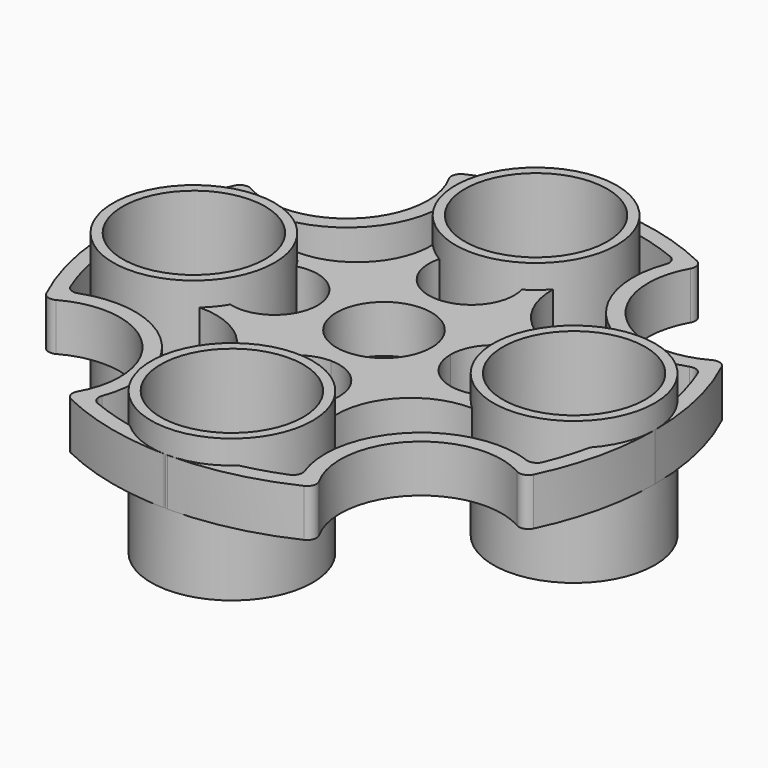
from build123d import *

# Parameters (mm, degrees)
F1_DEPTH = 6.35
F2_R     = 10.795
F2_R_2   = 9.525
F3_DEPTH = 9.525


with BuildPart() as f1:
    # F0 (on Top) → F1 (new body)
    with BuildSketch(Plane.XY):
        with BuildLine():
            ThreePointArc((-16.1177941176, 5.511141348), (-11.1397722573, 4.5446035791), (-8.89, 0))
            ThreePointArc((-8.89, 0), (-6.2861792847, 6.2861792847), (0, 8.89))
            ThreePointArc((0, 8.89), (-4.5446035791, 11.1397722573), (-5.511141348, 16.1177941176))
            ThreePointArc((-5.511141348, 16.1177941176), (-6.859587162, 17.0646482398), (-8.0482256298, 18.2056904979))
            ThreePointArc((-8.0482256298, 18.2056904979), (-10.9493233892, 10.9493233892), (-18.2056904979, 8.0482256298))
            ThreePointArc((-18.2056904979, 8.0482256298), (-17.0646482398, 6.859587162), (-16.1177941176, 5.511141348))
        make_face()
        with BuildLine():
            ThreePointArc((0, 8.89), (6.2861792847, 6.2861792847), (8.89, 0))
            ThreePointArc((8.89, 0), (11.1397722573, 4.5446035791), (16.1177941176, 5.511141348))
            ThreePointArc((16.1177941176, 5.511141348), (17.0646482398, 6.859587162), (18.2056904979, 8.0482256298))
            ThreePointArc((18.2056904979, 8.0482256298), (10.9493233892, 10.9493233892), (8.0482256298, 18.2056904979))
            ThreePointArc((8.0482256298, 18.2056904979), (6.859587162, 17.0646482398), (5.511141348, 16.1177941176))
            ThreePointArc((5.511141348, 16.1177941176), (4.5446035791, 11.1397722573), (0, 8.89))
        make_face()
        with BuildLine():
            ThreePointArc((8.89, 0), (6.2861792847, -6.2861792847), (0, -8.89))
            ThreePointArc((0, -8.89), (4.5446035791, -11.1397722573), (5.511141348, -16.1177941176))
            ThreePointArc((5.511141348, -16.1177941176), (6.859587162, -17.0646482398), (8.0482256298, -18.2056904979))
            ThreePointArc((8.0482256298, -18.2056904979), (10.9493233892, -10.9493233892), (18.2056904979, -8.0482256298))
            ThreePointArc((18.2056904979, -8.0482256298), (17.0646482398, -6.859587162), (16.1177941176, -5.511141348))
            ThreePointArc((16.1177941176, -5.511141348), (11.1397722573, -4.5446035791), (8.89, 0))
        make_face()
        with BuildLine():
            ThreePointArc((-5.511141348, -16.1177941176), (-4.5446035791, -11.1397722573), (0, -8.89))
            ThreePointArc((0, -8.89), (-6.2861792847, -6.2861792847), (-8.89, 0))
            ThreePointArc((-8.89, 0), (-11.1397722573, -4.5446035791), (-16.1177941176, -5.511141348))
            ThreePointArc((-16.1177941176, -5.511141348), (-17.0646482398, -6.859587162), (-18.2056904979, -8.0482256298))
            ThreePointArc((-18.2056904979, -8.0482256298), (-10.9493233892, -10.9493233892), (-8.0482256298, -18.2056904979))
            ThreePointArc((-8.0482256298, -18.2056904979), (-6.859587162, -17.0646482398), (-5.511141348, -16.1177941176))
        make_face()
        with BuildLine():
            ThreePointArc((-8.89, 0), (-6.2861792847, -6.2861792847), (0, -8.89))
            ThreePointArc((0, -8.89), (6.2861792847, -6.2861792847), (8.89, 0))
            ThreePointArc((8.89, 0), (6.2861792847, 6.2861792847), (0, 8.89))
            ThreePointArc((0, 8.89), (-6.2861792847, 6.2861792847), (-8.89, 0))
        make_face()
        with BuildLine():
            ThreePointArc((0, -6.35), (-4.4901280605, 4.4901280605), (6.35, 0))
            ThreePointArc((6.35, 0), (4.4901280605, -4.4901280605), (0, -6.35))
        make_face(mode=Mode.SUBTRACT)
    extrude(amount=F1_DEPTH)


with BuildPart() as f1b:
    # F0 (on Top) → F1, piece 2 (new body)
    with BuildSketch(Plane.XY):
        with BuildLine():
            ThreePointArc((-36.195, -8.67e-08), (-35.4668631219, 3.8974724995), (-33.38068, 7.2691658213))
            ThreePointArc((-33.38068, 7.2691658213), (-32.6191290568, 10.1539641804), (-31.6087789055, 12.9613141735))
            ThreePointArc((-31.6087789055, 12.9613141735), (-30.942410993, 13.643158308), (-29.9893742073, 13.6692064131))
            ThreePointArc((-29.9893742073, 13.6692064131), (-16.4635241174, 16.5828183562), (-13.4523352483, 30.0872804633))
            ThreePointArc((-13.4523352483, 30.0872804633), (-13.4194071625, 31.0401043504), (-12.7327698082, 31.7015321713))
            ThreePointArc((-12.7327698082, 31.7015321713), (-10.0361467501, 32.6555711543), (-7.2691658213, 33.38068))
            ThreePointArc((-7.2691658213, 33.38068), (-3.89747254, 35.4668631063), (0, 36.195))
            ThreePointArc((0, 36.195), (-7.9464242233, 35.311929529), (-15.5051013775, 32.7058076841))
            ThreePointArc((-15.5051013775, 32.7058076841), (-16.1705661328, 31.9455357884), (-16.0704969772, 30.9401289751))
            ThreePointArc((-16.0704969772, 30.9401289751), (-17.8951689057, 18.0248368028), (-30.8232980949, 16.2934572343))
            ThreePointArc((-30.8232980949, 16.2934572343), (-31.8279562333, 16.4007825384), (-32.5930127843, 15.7408240777))
            ThreePointArc((-32.5930127843, 15.7408240777), (-35.2830137892, 8.0738443727), (-36.195, -8.67e-08))
        make_face()
    extrude(amount=F1_DEPTH)


with BuildPart() as f1c:
    # F0 (on Top) → F1, piece 3 (new body)
    with BuildSketch(Plane.XY):
        with BuildLine():
            ThreePointArc((8.97e-08, -36.195), (-3.8974724982, -35.4668631224), (-7.2691658213, -33.38068))
            ThreePointArc((-7.2691658213, -33.38068), (-10.1539641804, -32.6191290568), (-12.9613141735, -31.6087789055))
            ThreePointArc((-12.9613141735, -31.6087789055), (-13.643158308, -30.942410993), (-13.6692064131, -29.9893742073))
            ThreePointArc((-13.6692064131, -29.9893742073), (-16.5828183562, -16.4635241174), (-30.0872804633, -13.4523352483))
            ThreePointArc((-30.0872804633, -13.4523352483), (-31.0401043504, -13.4194071625), (-31.7015321713, -12.7327698082))
            ThreePointArc((-31.7015321713, -12.7327698082), (-32.6555711543, -10.0361467501), (-33.38068, -7.2691658213))
            ThreePointArc((-33.38068, -7.2691658213), (-35.4668630906, -3.8974725804), (-36.195, -8.67e-08))
            ThreePointArc((-36.195, -8.67e-08), (-35.3119295195, -7.9464242656), (-32.7058076841, -15.5051013775))
            ThreePointArc((-32.7058076841, -15.5051013775), (-31.9455357884, -16.1705661328), (-30.9401289751, -16.0704969772))
            ThreePointArc((-30.9401289751, -16.0704969772), (-18.0248368028, -17.8951689057), (-16.2934572343, -30.8232980949))
            ThreePointArc((-16.2934572343, -30.8232980949), (-16.4007825384, -31.8279562333), (-15.7408240777, -32.5930127843))
            ThreePointArc((-15.7408240777, -32.5930127843), (-8.0738443712, -35.2830137895), (8.97e-08, -36.195))
        make_face()
    extrude(amount=F1_DEPTH)


with BuildPart() as f1d:
    # F0 (on Top) → F1, piece 4 (new body)
    with BuildSketch(Plane.XY):
        with BuildLine():
            ThreePointArc((36.195, 0), (35.4668631063, -3.89747254), (33.38068, -7.2691658213))
            ThreePointArc((33.38068, -7.2691658213), (32.6191290568, -10.1539641804), (31.6087789055, -12.9613141735))
            ThreePointArc((31.6087789055, -12.9613141735), (30.942410993, -13.643158308), (29.9893742073, -13.6692064131))
            ThreePointArc((29.9893742073, -13.6692064131), (16.4635241174, -16.5828183562), (13.4523352483, -30.0872804633))
            ThreePointArc((13.4523352483, -30.0872804633), (13.4194071625, -31.0401043504), (12.7327698082, -31.7015321713))
            ThreePointArc((12.7327698082, -31.7015321713), (10.0361467501, -32.6555711543), (7.2691658213, -33.38068))
            ThreePointArc((7.2691658213, -33.38068), (3.8974725818, -35.4668630901), (8.97e-08, -36.195))
            ThreePointArc((8.97e-08, -36.195), (7.946424267, -35.3119295192), (15.5051013775, -32.7058076841))
            ThreePointArc((15.5051013775, -32.7058076841), (16.1705661328, -31.9455357884), (16.0704969772, -30.9401289751))
            ThreePointArc((16.0704969772, -30.9401289751), (17.8951689057, -18.0248368028), (30.8232980949, -16.2934572343))
            ThreePointArc((30.8232980949, -16.2934572343), (31.8279562333, -16.4007825384), (32.5930127843, -15.7408240777))
            ThreePointArc((32.5930127843, -15.7408240777), (35.2830137795, -8.0738444149), (36.195, 0))
        make_face()
    extrude(amount=F1_DEPTH)


with BuildPart() as f1e:
    # F0 (on Top) → F1, piece 5 (new body)
    with BuildSketch(Plane.XY):
        with BuildLine():
            ThreePointArc((31.7015321713, 12.7327698082), (32.6555711543, 10.0361467501), (33.38068, 7.2691658213))
            ThreePointArc((33.38068, 7.2691658213), (35.4668631063, 3.89747254), (36.195, 0))
            ThreePointArc((36.195, 0), (35.311929529, 7.9464242233), (32.7058076841, 15.5051013775))
            ThreePointArc((32.7058076841, 15.5051013775), (31.9455357884, 16.1705661328), (30.9401289751, 16.0704969772))
            ThreePointArc((30.9401289751, 16.0704969772), (18.0248368028, 17.8951689057), (16.2934572343, 30.8232980949))
            ThreePointArc((16.2934572343, 30.8232980949), (16.4007825384, 31.8279562333), (15.7408240777, 32.5930127843))
            ThreePointArc((15.7408240777, 32.5930127843), (8.0738444149, 35.2830137795), (0, 36.195))
            ThreePointArc((0, 36.195), (3.89747254, 35.4668631063), (7.2691658213, 33.38068))
            ThreePointArc((7.2691658213, 33.38068), (10.1539641804, 32.6191290568), (12.9613141735, 31.6087789055))
            ThreePointArc((12.9613141735, 31.6087789055), (13.643158308, 30.942410993), (13.6692064131, 29.9893742073))
            ThreePointArc((13.6692064131, 29.9893742073), (16.5828183562, 16.4635241174), (30.0872804633, 13.4523352483))
            ThreePointArc((30.0872804633, 13.4523352483), (31.0401043504, 13.4194071625), (31.7015321713, 12.7327698082))
        make_face()
    extrude(amount=F1_DEPTH)


with BuildPart() as f3:
    # F2 (on Top) → F3 (new body, symmetric)
    with BuildSketch(Plane.XY):
        with Locations((-25.4, 0)):
            Circle(F2_R)
        with Locations((-25.4, 0)):
            Circle(F2_R_2, mode=Mode.SUBTRACT)
    extrude(amount=F3_DEPTH, both=True)


with BuildPart() as f3b:
    # F2 (on Top) → F3, piece 2 (new body, symmetric)
    with BuildSketch(Plane.XY):
        with Locations((0, -25.4)):
            Circle(F2_R)
        with Locations((0, -25.4)):
            Circle(F2_R_2, mode=Mode.SUBTRACT)
    extrude(amount=F3_DEPTH, both=True)


with BuildPart() as f3c:
    # F2 (on Top) → F3, piece 3 (new body, symmetric)
    with BuildSketch(Plane.XY):
        with Locations((25.4, 0)):
            Circle(F2_R)
        with Locations((25.4, 0)):
            Circle(F2_R_2, mode=Mode.SUBTRACT)
    extrude(amount=F3_DEPTH, both=True)


with BuildPart() as f3d:
    # F2 (on Top) → F3, piece 4 (new body, symmetric)
    with BuildSketch(Plane.XY):
        with Locations((0, 25.4)):
            Circle(F2_R)
        with Locations((0, 25.4)):
            Circle(F2_R_2, mode=Mode.SUBTRACT)
    extrude(amount=F3_DEPTH, both=True)


solid = Compound([f1.part, f1b.part, f1c.part, f1d.part, f1e.part, f3.part, f3b.part, f3c.part, f3d.part])
